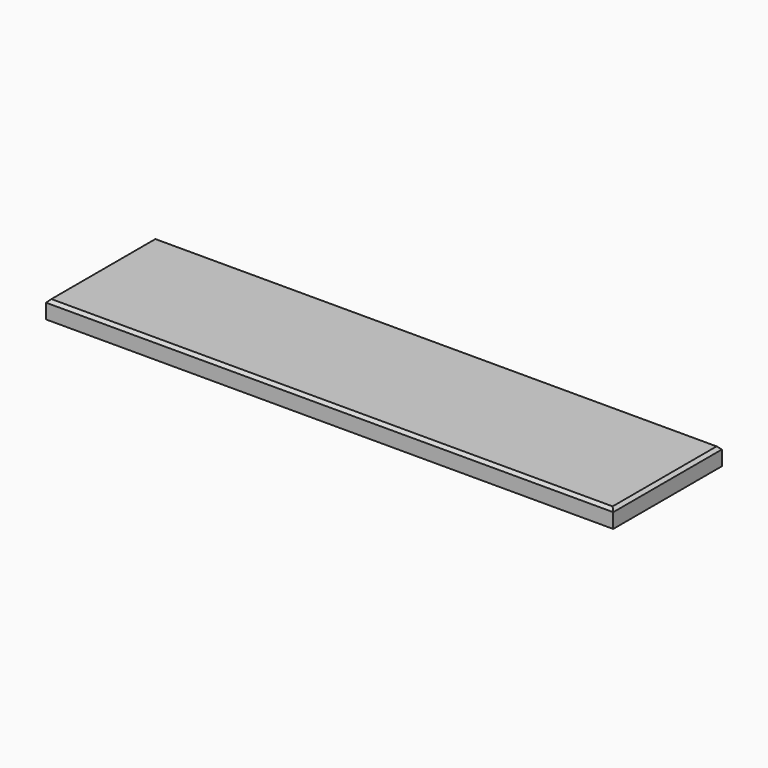
from build123d import *

# Parameters (mm, degrees)
F0_W     = 1219.2
F0_H     = 292.1
F1_DEPTH = 38.1
F2_SIZE  = 6.35


with BuildPart() as f1:
    # F0 (on Top) → F1 (new body)
    with BuildSketch(Plane.XY):
        Rectangle(F0_W, F0_H)
    extrude(amount=F1_DEPTH)

    # F2
    f2_edges = [f1.edges().sort_by_distance(p)[0] for p in [
        (0, 146.05, 38.1),
        (609.6, 0, 38.1),
        (0, -146.05, 38.1),
        (-609.6, 0, 38.1),
    ]]
    chamfer(f2_edges, length=F2_SIZE)


solid = f1.part
